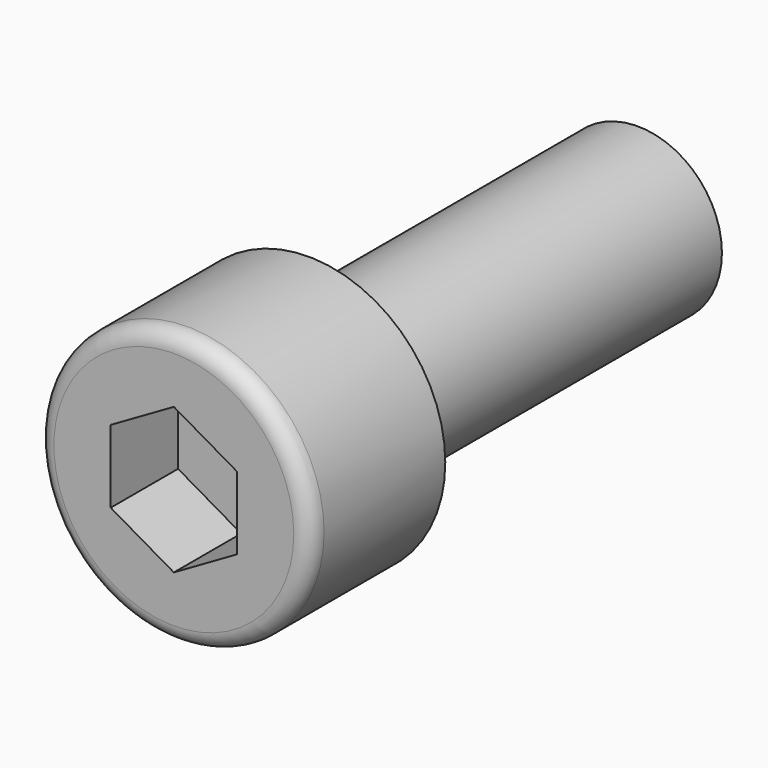
from build123d import *

# Parameters (mm, degrees)
POCKET_DEPTH = 4


with BuildPart() as part:
    # Sketch → Revolution (revolve)
    with BuildSketch(Plane.XY):
        with BuildLine():
            Line((4, 0), (6.5, 0))
            Line((6.5, 0), (6.5, -7.2))
            ThreePointArc((5.7, -8), (6.265685, -7.765685), (6.5, -7.2))
            Line((5.7, -8), (0, -8))
            Line((0, -8), (0, 20))
            Line((0, 20), (3.235, 20))
            Line((3.235, 20), (4, 19.558327))
            Line((4, 19.558327), (4, 0))
        make_face()
    revolve(axis=Axis((0, 0, 0), (0, 1, 0)))

    # Sketch001 → Pocket (cut)
    with BuildSketch(Plane.XZ.offset(8)):
        Polygon((-3, 1.732051), (-3, -1.732051), (0, -3.464102), (3, -1.732051), (3, 1.732051), (0, 3.464102), align=None)
    extrude(amount=-POCKET_DEPTH, mode=Mode.SUBTRACT)


solid = part.part
